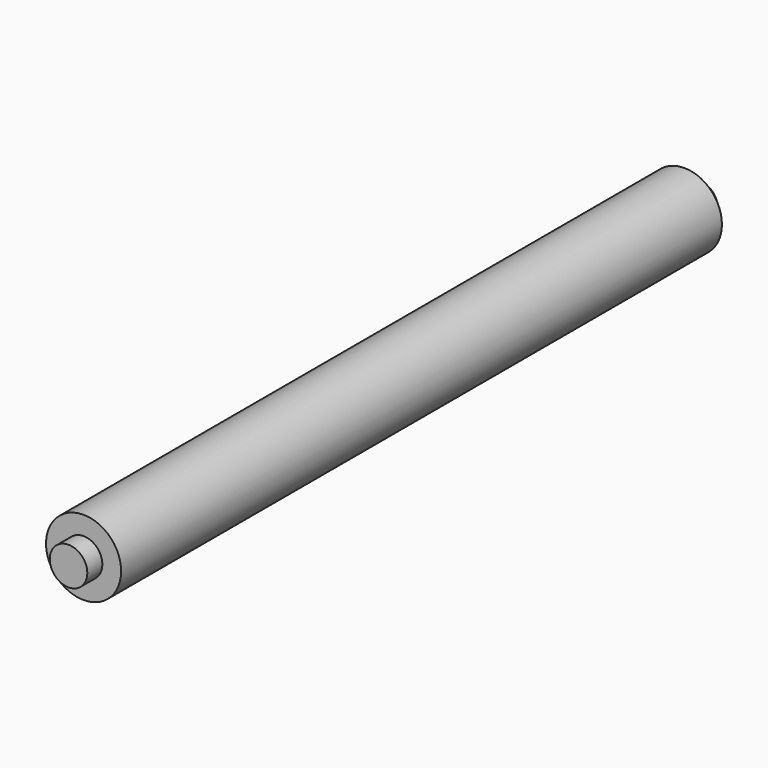
from build123d import *

# Parameters (mm, degrees)
F0_R          = 5
F1_DEPTH      = 100
F2_R          = 2.5
F3_DEPTH      = 2.5
F3_DEPTH_BACK = 102.5


with BuildPart() as f1:
    # F0 (on Front) → F1 (new body)
    with BuildSketch(Plane.XZ):
        Circle(F0_R)
    extrude(amount=F1_DEPTH)

    # F2 (on face) → F3 (join, two sides)
    with BuildSketch(Plane.XZ.offset(100)) as f3_sk:
        Circle(F2_R)
    extrude(amount=F3_DEPTH)
    extrude(f3_sk.sketch, amount=-F3_DEPTH_BACK)


solid = f1.part
